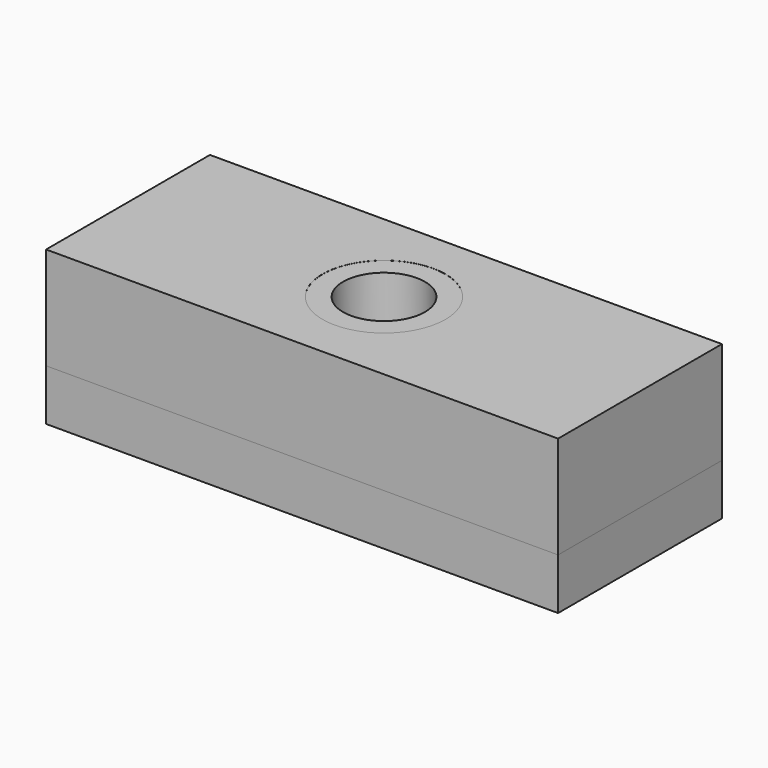
from build123d import *

# Parameters (mm, degrees)
SKETCH_W        = 50
SKETCH_H        = 20
PAD_DEPTH       = 10
SKETCH002_R     = 4
POCKET_DEPTH    = 10.001
SKETCH004_R     = 6
POCKET002_DEPTH = 0.01
SKETCH001_W     = 50
SKETCH001_H     = 20
PAD001_DEPTH    = 5
SKETCH003_R     = 3
POCKET001_DEPTH = 5.001


with BuildPart() as part:
    # Sketch → Pad (new body)
    with BuildSketch(Plane.XY):
        Rectangle(SKETCH_W, SKETCH_H)
    extrude(amount=PAD_DEPTH)

    # Sketch002 → Pocket (cut, through all)
    with BuildSketch(Plane.XY.offset(10)):
        Circle(SKETCH002_R)
    extrude(amount=-POCKET_DEPTH, mode=Mode.SUBTRACT)

    # Sketch004 → Pocket002 (cut)
    with BuildSketch(Plane.XY.offset(10)):
        Circle(SKETCH004_R)
    extrude(amount=-POCKET002_DEPTH, mode=Mode.SUBTRACT)


with BuildPart() as base:
    # Sketch001 → Pad001 (new body)
    with BuildSketch(Plane.XY):
        Rectangle(SKETCH001_W, SKETCH001_H)
    extrude(amount=-PAD001_DEPTH)

    # Sketch003 → Pocket001 (cut, through all)
    with BuildSketch(Plane(origin=(0, 0, -5), x_dir=(1, 0, 0), z_dir=(0, 0, -1))):
        Circle(SKETCH003_R)
    extrude(amount=-POCKET001_DEPTH, mode=Mode.SUBTRACT)


solid = Compound([part.part, base.part])
